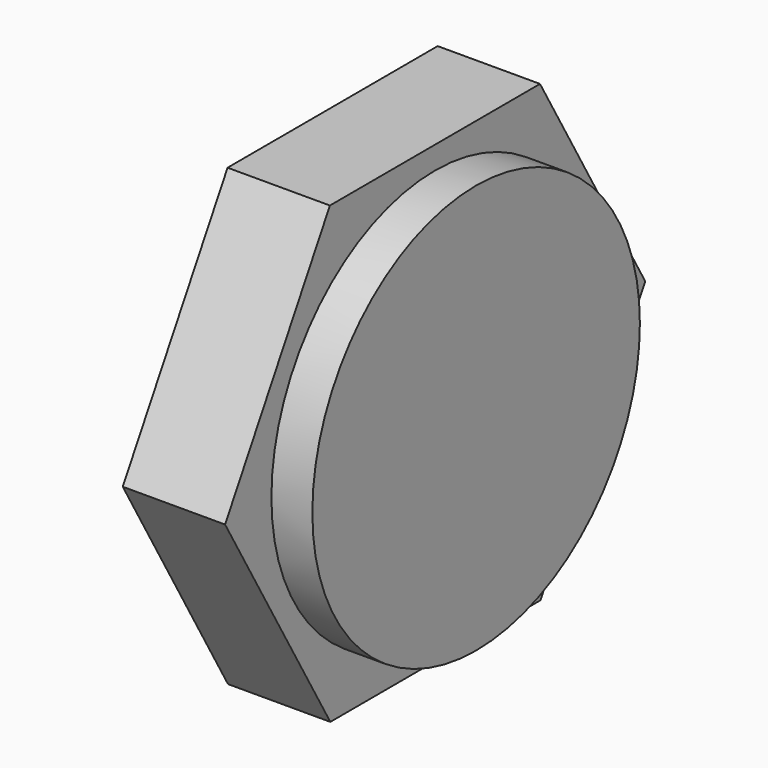
from build123d import *

# Parameters (mm, degrees)
F1_DEPTH = 1.25
F2_R     = 5
F3_DEPTH = 1


with BuildPart() as f1:
    # F0 (on Right) → F1 (new body, symmetric)
    with BuildSketch(Plane.YZ):
        Polygon((-6.414357, -0.007678), (-3.200529, -5.558835), (3.213828, -5.551157), (6.414357, 0.007678), (3.200529, 5.558835), (-3.213828, 5.551157), align=None)
    extrude(amount=F1_DEPTH, both=True)

    # F2 (on face) → F3 (join)
    with BuildSketch(Plane.YZ.offset(1.25)):
        Circle(F2_R)
    extrude(amount=F3_DEPTH)


solid = f1.part
